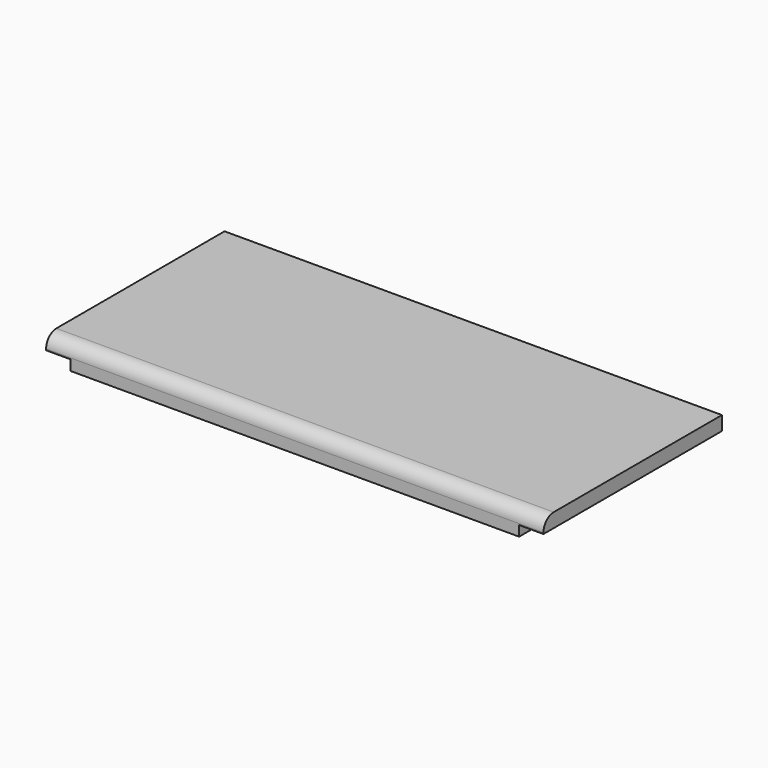
from build123d import *

# Parameters (mm, degrees)
F0_W     = 388
F0_H     = 174
F1_DEPTH = 19
F2_W     = 19
F2_H     = 8
F3_DEPTH = 178
F4_W     = 350
F4_H     = 8
F5_DEPTH = 10
F6_R     = 10


with BuildPart() as f1:
    # F0 (on Top) → F1 (new body)
    with BuildSketch(Plane.XY):
        Rectangle(F0_W, F0_H)
    extrude(amount=F1_DEPTH)

    # F2 (on face) → F3 (cut)
    with BuildSketch(Plane.XZ.offset(87)):
        with Locations((184.5, 4)):
            Rectangle(F2_W, F2_H)
        with Locations((-184.5, 4)):
            Rectangle(F2_W, F2_H)
    extrude(amount=-F3_DEPTH, mode=Mode.SUBTRACT)

    # F4 (on face) → F5 (cut)
    with BuildSketch(Plane(origin=(0, 87, 0), x_dir=(-1, 0, 0), z_dir=(0, 1, 0))):
        with Locations((0, 4)):
            Rectangle(F4_W, F4_H)
    extrude(amount=-F5_DEPTH, mode=Mode.SUBTRACT)

    # F6
    f6_edges = [f1.edges().sort_by_distance(p)[0] for p in [
        (0, -87, 19),
    ]]
    fillet(f6_edges, radius=F6_R)


solid = f1.part
